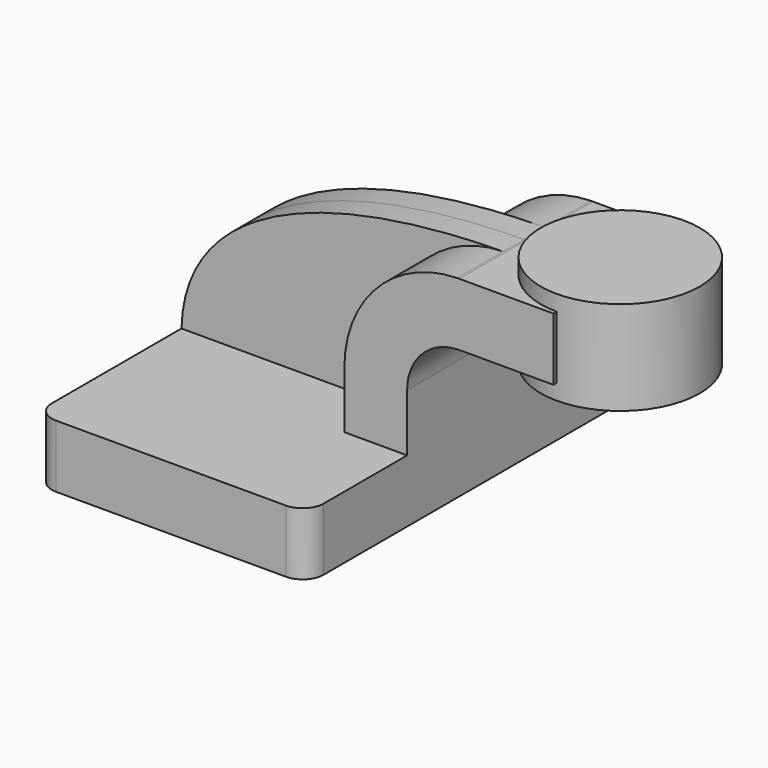
from build123d import *

# Parameters (mm, degrees)
F1_DEPTH = 63.5
F0_W     = 26.6352667648
F0_H     = 19.05
F2_DEPTH = 25.4
F3_DEPTH = 7.9375
F5_R     = 6.35


with BuildPart() as f1:
    # F0 (on Front) → F1 (new body, symmetric)
    with BuildSketch(Plane.XZ):
        Polygon((-41.275, 9.525), (-41.275, -9.525), (41.275, -9.525), (41.275, 9.525), (22.225, 9.525), align=None)
    extrude(amount=F1_DEPTH, both=True)

    # F0 (on Front) → F2 (join, symmetric)
    with BuildSketch(Plane.XZ):
        with BuildLine():
            Line((22.225, 9.525), (41.275, 9.525))
            Line((41.275, 9.525), (41.275, 27.0002))
            ThreePointArc((41.275, 27.0002), (45.9246798487, 38.2255201513), (57.15, 42.8752))
            Line((57.15, 42.8752), (59.0897332352, 42.8752))
            Line((59.0897332352, 42.8752), (59.0897332352, 61.9252))
            Line((59.0897332352, 61.9252), (57.15, 61.9252))
            add(Edge.make_bspline(
                [(56.5390411257, 61.9198557007), (56.7424803889, 61.9218514766), (56.9461336922, 61.9236329014), (57.15, 61.9252)],
                knots=[111.1067755669, 111.1067755669, 111.1067755669, 111.1067755669, 111.5045361635, 111.5045361635, 111.5045361635, 111.5045361635], degree=3))
            ThreePointArc((56.5390411257, 61.9198557007), (32.2392255872, 51.4789447218), (22.225, 27.0002))
            Line((22.225, 27.0002), (22.225, 9.525))
        make_face()
        with Locations((72.4073666176, 52.4002)):
            Rectangle(F0_W, F0_H)
        with Locations((72.4073666176, 52.4002)):
            Rectangle(F0_W, F0_H)
    extrude(amount=F2_DEPTH, both=True)

    # F0 (on Front) → F3 (join, symmetric)
    with BuildSketch(Plane.XZ):
        with BuildLine():
            add(Edge.make_bspline(
                [(-41.275, 9.525), (-40.4140404528, 44.079992279), (-0.2878058759, 61.3623740581), (56.5390411257, 61.9198557007)],
                knots=[0, 0, 0, 0, 111.1067755669, 111.1067755669, 111.1067755669, 111.1067755669], degree=3))
            Line((-41.275, 9.525), (22.225, 9.525))
            Line((22.225, 9.525), (22.225, 27.0002))
            ThreePointArc((22.225, 27.0002), (32.2392255872, 51.4789447218), (56.5390411257, 61.9198557007))
        make_face()
    extrude(amount=F3_DEPTH, both=True)

    # F0 (on Front) → F4 (revolve)
    with BuildSketch(Plane.XZ):
        Polygon((85.725, 66.675), (85.725, 61.9252), (85.725, 42.8752), (85.725, 38.1), (109.8897332352, 38.1), (109.8897332352, 66.675), align=None)
    revolve(axis=Axis((85.725, 0, 52.4002), (0, 0, -1)))

    # F5
    f5_edges = [f1.edges().sort_by_distance(p)[0] for p in [
        (-41.275, -63.5, 0),
        (41.275, -63.5, 0),
        (41.275, 63.5, 0),
        (-41.275, 63.5, 0),
    ]]
    fillet(f5_edges, radius=F5_R)


solid = f1.part
